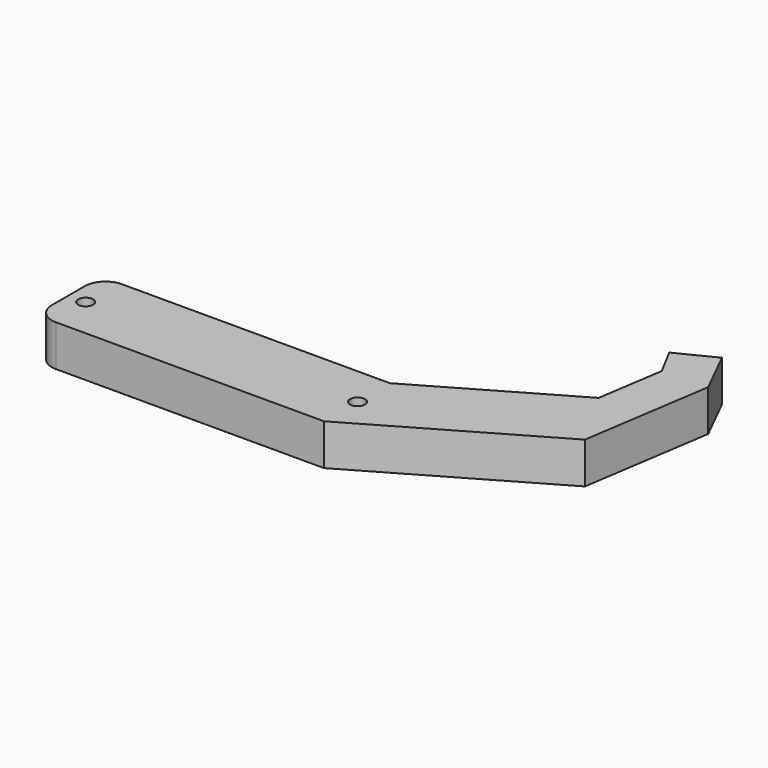
from build123d import *

# Parameters (mm, degrees)
F0_W     = 70
F0_H     = 20
F1_DEPTH = 10
F2_R     = 5
F3_R     = 1.8
F4_DEPTH = 20
F5_R     = 1.8
F6_DEPTH = 20


with BuildPart() as f1:
    # F0 (on Top) → F1 (new body)
    with BuildSketch(Plane.XY):
        with Locations((-45.893969, 6.072203)):
            Rectangle(F0_W, F0_H)
        Polygon((-10.893969, 16.072203), (-10.893969, -3.927797), (32.407302, 21.072203), (23.747048, 36.072203), align=None)
        Polygon((23.747048, 36.072203), (32.407302, 21.072203), (37.188711, 52.469358), (26.193698, 52.138151), align=None)
        Polygon((26.193698, 52.138151), (37.188711, 52.469358), (31.691205, 63.501806), (22.561267, 58.952328), align=None)
    extrude(amount=F1_DEPTH)

    # F2
    f2_edges = [f1.edges().sort_by_distance(p)[0] for p in [
        (-80.893969, 16.072203, 5),
        (-80.893969, -3.927797, 5),
    ]]
    fillet(f2_edges, radius=F2_R)

    # F3 (on face) → F4 (cut)
    with BuildSketch(Plane.XY.offset(10)):
        with Locations((-76.693969, 6.072203)):
            Circle(F3_R)
    extrude(amount=-F4_DEPTH, mode=Mode.SUBTRACT)

    # F5 (on face) → F6 (cut)
    with BuildSketch(Plane.XY.offset(10)):
        with Locations((-10.893969, 6.272203)):
            Circle(F5_R)
    extrude(amount=-F6_DEPTH, mode=Mode.SUBTRACT)


solid = f1.part
